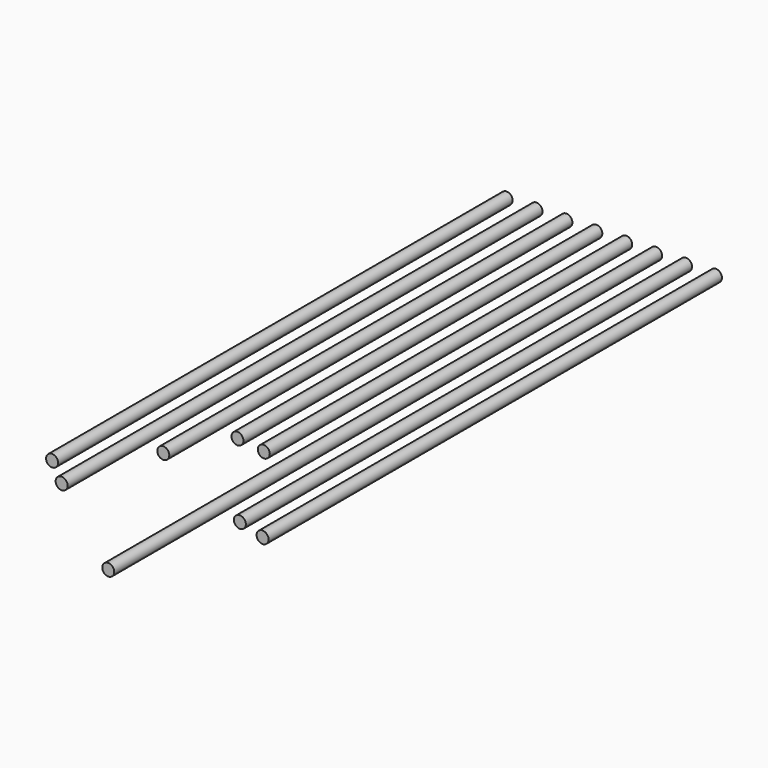
from build123d import *

# Parameters (mm, degrees)
F0_R     = 4
F1_DEPTH = 380
F2_DEPTH = 397
F3_DEPTH = 337
F4_DEPTH = 300
F5_DEPTH = 303
F6_DEPTH = 458
F7_DEPTH = 373
F8_DEPTH = 379


with BuildPart() as f1:
    # F0 (on Front) → F1 (new body)
    with BuildSketch(Plane.XZ):
        Circle(F0_R)
    extrude(amount=F1_DEPTH)


with BuildPart() as f2:
    # F0 (on Front) → F2 (new body)
    with BuildSketch(Plane.XZ):
        with Locations((20, 0)):
            Circle(F0_R)
    extrude(amount=F2_DEPTH)


with BuildPart() as f3:
    # F0 (on Front) → F3 (new body)
    with BuildSketch(Plane.XZ):
        with Locations((40, 0)):
            Circle(F0_R)
    extrude(amount=F3_DEPTH)


with BuildPart() as f4:
    # F0 (on Front) → F4 (new body)
    with BuildSketch(Plane.XZ):
        with Locations((60, 0)):
            Circle(F0_R)
    extrude(amount=F4_DEPTH)


with BuildPart() as f5:
    # F0 (on Front) → F5 (new body)
    with BuildSketch(Plane.XZ):
        with Locations((80, 0)):
            Circle(F0_R)
    extrude(amount=F5_DEPTH)


with BuildPart() as f6:
    # F0 (on Front) → F6 (new body)
    with BuildSketch(Plane.XZ):
        with Locations((100, 0)):
            Circle(F0_R)
    extrude(amount=F6_DEPTH)


with BuildPart() as f7:
    # F0 (on Front) → F7 (new body)
    with BuildSketch(Plane.XZ):
        with Locations((120, 0)):
            Circle(F0_R)
    extrude(amount=F7_DEPTH)


with BuildPart() as f8:
    # F0 (on Front) → F8 (new body)
    with BuildSketch(Plane.XZ):
        with Locations((140, 0)):
            Circle(F0_R)
    extrude(amount=F8_DEPTH)


solid = Compound([f1.part, f2.part, f3.part, f4.part, f5.part, f6.part, f7.part, f8.part])
